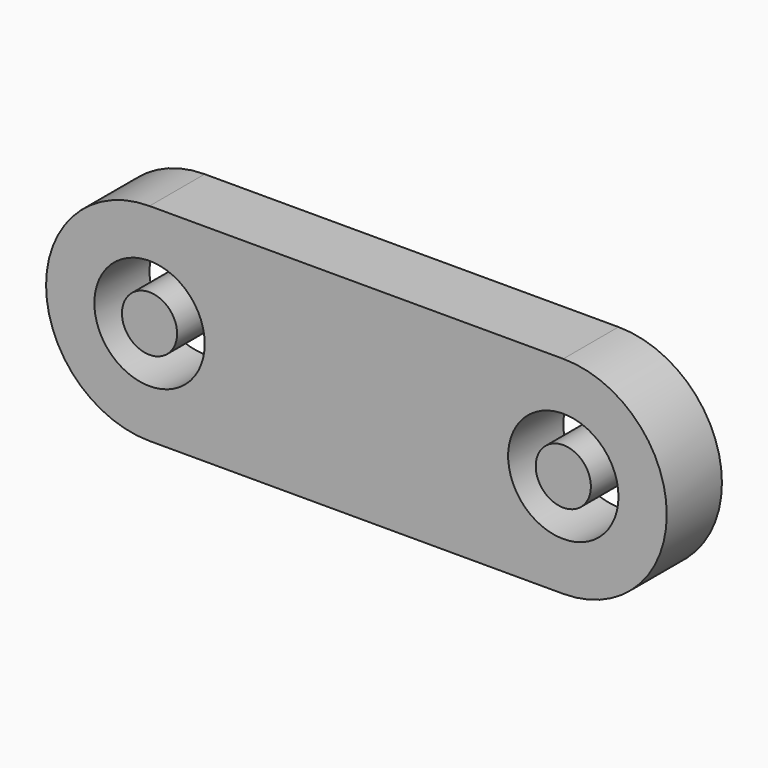
from build123d import *

# Parameters (mm, degrees)
F0_R     = 101.6
F1_DEPTH = 127
F2_R     = 50.8
F3_DEPTH = 127


with BuildPart() as f1:
    # F0 (on Front) → F1 (new body)
    with BuildSketch(Plane.XZ):
        with BuildLine():
            Line((381, 190.5), (-381, 190.5))
            ThreePointArc((-381, 190.5), (-571.5, 0), (-381, -190.5))
            Line((-381, -190.5), (381, -190.5))
            ThreePointArc((381, -190.5), (571.5, 0), (381, 190.5))
        make_face()
        with Locations((-381, 0)):
            Circle(F0_R, mode=Mode.SUBTRACT)
        with Locations((381, 0)):
            Circle(F0_R, mode=Mode.SUBTRACT)
    extrude(amount=F1_DEPTH)


with BuildPart() as f3:
    # F2 (on face) → F3 (new body)
    with BuildSketch(Plane.XZ.offset(127)):
        with Locations((-381, 0)):
            Circle(F2_R)
        with Locations((381, 0)):
            Circle(F2_R)
    extrude(amount=-F3_DEPTH)


solid = Compound([f1.part, f3.part])
